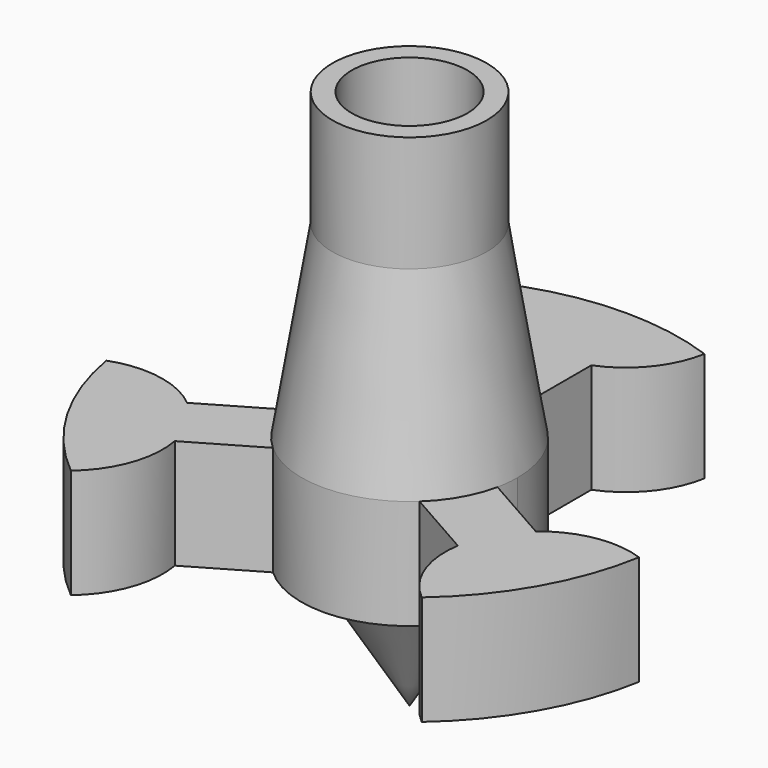
from build123d import *

# Parameters (mm, degrees)
F3_DEPTH = 14.097
F4_R     = 4.7625
F5_DEPTH = 9.525


with BuildPart() as f1:
    # F0 (on Front) → F1 (revolve)
    with BuildSketch(Plane.XZ):
        Polygon((6.35, 24.5250865847), (6.35, 34.0500865847), (0, 34.0500865847), (0, -10.3999134153), (6.35, 0), (22.225, 0), (22.225, 9.0132579207), (8.8899998294, 9.0132579207), align=None)
    revolve(axis=Axis((0, 0, 11.8250865847), (0, 0, 1)))

    # F2 (on Top) → F3 (cut)
    with BuildSketch(Plane.XY):
        with BuildLine():
            ThreePointArc((-14.113121628, -17.1688794892), (0.2443956371, -22.2236562197), (14.487278372, -16.8543582011))
            ThreePointArc((14.487278372, -16.8543582011), (12.207059324, -13.6802064233), (11.8003316443, -9.7931495662))
            Line((11.8003316443, -9.7931495662), (6.0394839652, -6.5235522098))
            ThreePointArc((6.0394839652, -6.5235522098), (0.0488798663, -8.889865621), (-5.9673830231, -6.5895705365))
            Line((-5.9673830231, -6.5895705365), (-11.470085079, -9.7931648991))
            ThreePointArc((-11.470085079, -9.7931648991), (-11.8071714813, -13.8337865787), (-14.113121628, -17.1688794892))
        make_face()
        with BuildLine():
            ThreePointArc((21.8983417722, -3.7964789779), (22.1431848532, -1.9052531477), (22.225, 0))
            ThreePointArc((22.225, 0), (18.1777280494, 12.7875262644), (7.5099648628, 20.9177210221))
            ThreePointArc((7.5099648628, 20.9177210221), (5.9196955053, 17.4232913204), (2.8274223411, 15.1478040653))
            Line((2.8274223411, 15.1478040653), (2.8274223411, 8.4283914779))
            ThreePointArc((2.8274223411, 8.4283914779), (7.2169205556, 5.1911614976), (8.89, 0))
            ThreePointArc((8.89, 0), (8.8417204308, -0.9252458182), (8.6974061138, -1.8404420369))
            Line((8.6974061138, -1.8404420369), (14.4582537929, -5.1100393933))
            ThreePointArc((14.4582537929, -5.1100393933), (18.0040397888, -3.4662510593), (21.8983417722, -3.7964789779))
        make_face()
        with BuildLine():
            ThreePointArc((-2.5544860487, 15.0469797465), (-5.8234880662, 17.3140797385), (-7.5044304492, 20.9197071833))
            ThreePointArc((-7.5044304492, 20.9197071833), (-19.2055517537, 11.1846952054), (-21.8983417722, -3.7964789779))
            ThreePointArc((-21.8983417722, -3.7964789779), (-17.8595819955, -3.4377725991), (-14.1793440119, -5.1395655315))
            Line((-14.1793440119, -5.1395655315), (-8.676641956, -1.9359711689))
            ThreePointArc((-8.676641956, -1.9359711689), (-7.6707699458, 4.4934828851), (-2.5544860487, 8.5150866717))
            Line((-2.5544860487, 8.5150866717), (-2.5544860487, 15.0469797465))
        make_face()
    extrude(amount=F3_DEPTH, mode=Mode.SUBTRACT)

    # F4 (on face) → F5 (cut)
    with BuildSketch(Plane.XY.offset(34.0500865847)):
        Circle(F4_R)
    extrude(amount=-F5_DEPTH, mode=Mode.SUBTRACT)


solid = f1.part
